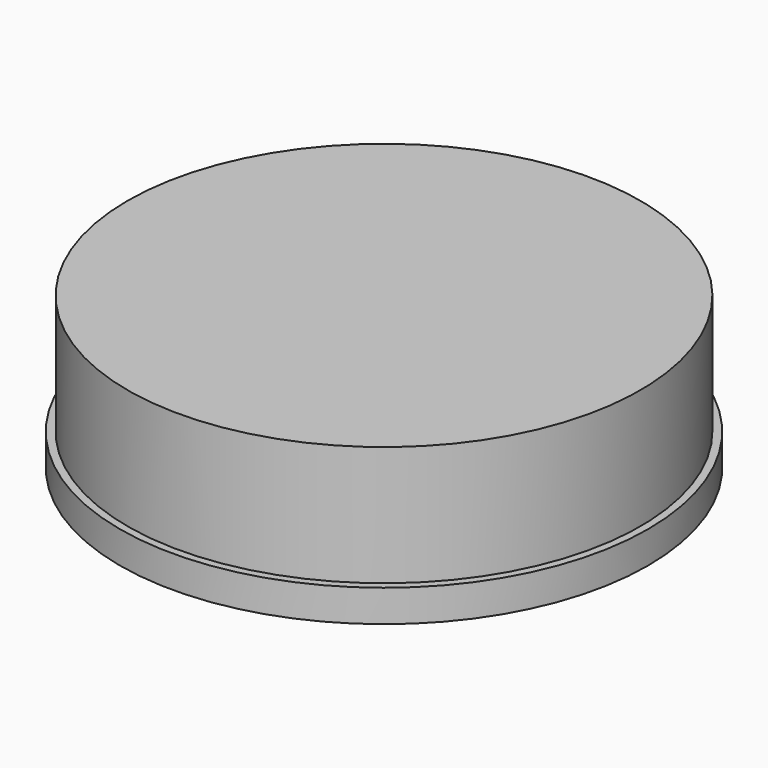
from build123d import *


with BuildPart() as f2:
    # F1 (on face) → F2 (revolve)
    with BuildSketch(Plane.XZ):
        Polygon((-1.352475, -0.592343), (8.825093, -0.592343), (8.825093, 5.261772), (-1.057084, 5.261772), (-1.057084, 0.642929), (-1.352475, 0.642929), align=None)
    revolve(axis=Axis((8.825093, 0, 2.334715), (0, 0, -1)))


solid = f2.part
